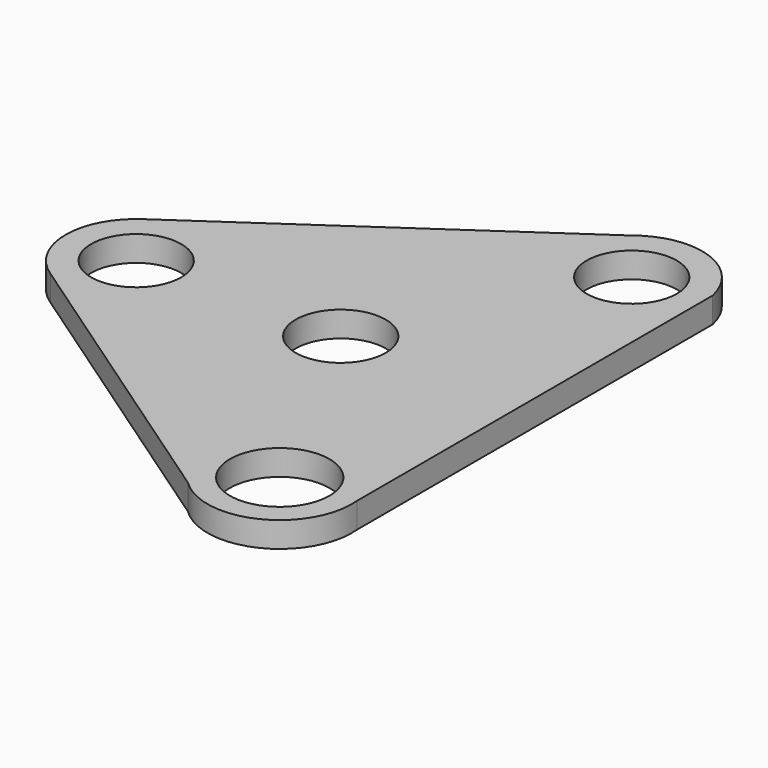
from build123d import *

# Parameters (mm, degrees)
F0_R     = 11.2522
F0_R_2   = 12.426193
F1_DEPTH = 6.35


with BuildPart() as f1:
    # F0 (on Top) → F1 (new body)
    with BuildSketch(Plane.XY):
        with BuildLine():
            Line((-67.657845, -44.553752), (-67.657845, 66.499353))
            ThreePointArc((-67.657845, 66.499353), (-79.045004, 79.292928), (-95.917531, 76.350007))
            Line((-95.917531, 76.350007), (-174.337078, 22.434452))
            ThreePointArc((-174.337078, 22.434452), (-182.268555, 7.726816), (-174.337078, -6.980819))
            Line((-174.337078, -6.980819), (-98.229253, -59.166711))
            ThreePointArc((-98.229253, -59.166711), (-77.831268, -62.555507), (-67.657845, -44.553752))
        make_face()
        with Locations((-164.666355, 7.726816)):
            Circle(F0_R, mode=Mode.SUBTRACT)
        with Locations((-85.608624, -46.284694)):
            Circle(F0_R_2, mode=Mode.SUBTRACT)
        with Locations((-113.578208, 7.726816)):
            Circle(F0_R, mode=Mode.SUBTRACT)
        with Locations((-84.838811, 62.671579)):
            Circle(F0_R, mode=Mode.SUBTRACT)
    extrude(amount=F1_DEPTH)


solid = f1.part
